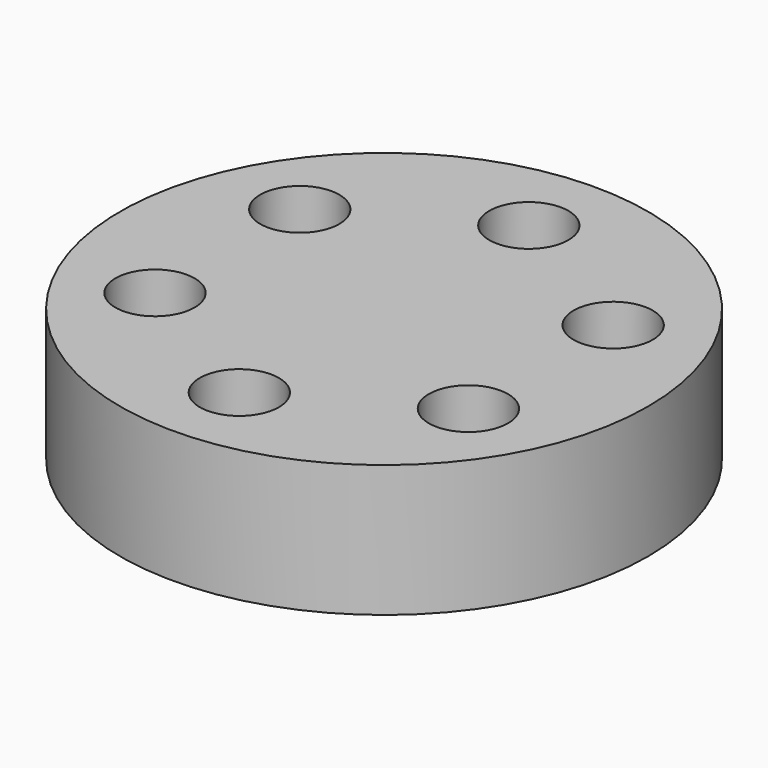
from build123d import *

# Parameters (mm, degrees)
F0_R     = 10
F0_R_2   = 1.5
F1_DEPTH = 5


with BuildPart() as f1:
    # F0 (on Top) → F1 (new body)
    with BuildSketch(Plane.XY):
        Circle(F0_R)
        with Locations((0, -6.854824)):
            Circle(F0_R_2, mode=Mode.SUBTRACT)
        with Locations((-5.936452, -3.427412)):
            Circle(F0_R_2, mode=Mode.SUBTRACT)
        with Locations((5.936452, -3.427412)):
            Circle(F0_R_2, mode=Mode.SUBTRACT)
        with Locations((-5.936452, 3.427412)):
            Circle(F0_R_2, mode=Mode.SUBTRACT)
        with Locations((5.936452, 3.427412)):
            Circle(F0_R_2, mode=Mode.SUBTRACT)
        with Locations((0, 6.854824)):
            Circle(F0_R_2, mode=Mode.SUBTRACT)
    extrude(amount=F1_DEPTH)


solid = f1.part
